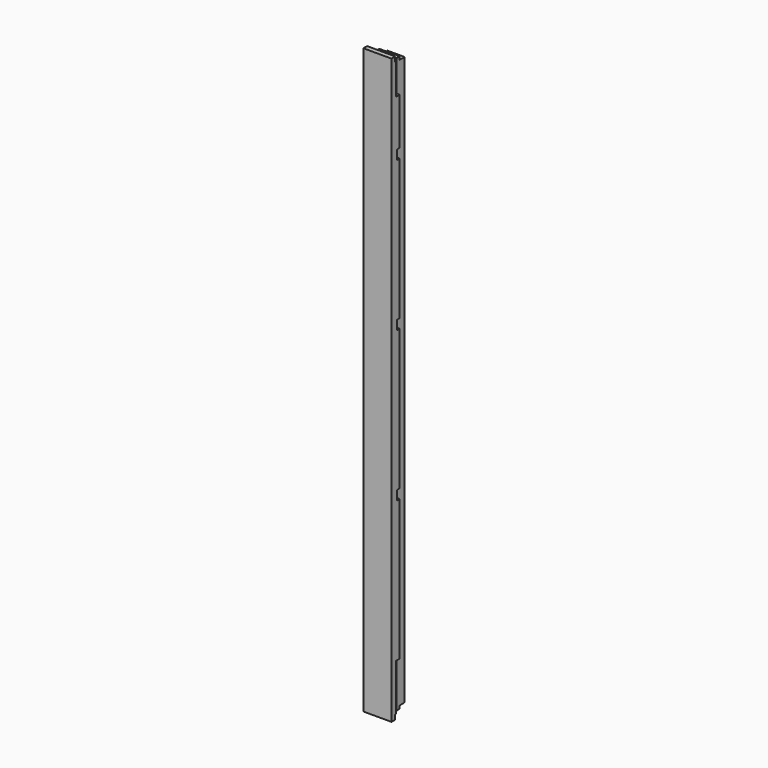
from build123d import *

# Parameters (mm, degrees)
SKETCH003_W     = 90
SKETCH003_H     = 65
PAD001_DEPTH    = 1870
POCKET016_DEPTH = 15
POCKET018_DEPTH = 15
SKETCH006_W     = 10
SKETCH006_H     = 30
POCKET004_DEPTH = 90.001
SKETCH007_W     = 20
SKETCH007_H     = 25
POCKET005_DEPTH = 3836.586112
SKETCH008_W     = 50
SKETCH008_H     = 15
POCKET006_DEPTH = 3836.586112
SKETCH009_W     = 25
SKETCH009_H     = 20
POCKET007_DEPTH = 1870.001
SKETCH010_W     = 15
SKETCH010_H     = 50
POCKET008_DEPTH = 1870.001
SKETCH020_W     = 10
SKETCH020_H     = 32
POCKET017_DEPTH = 1870.001


with BuildPart() as part:
    # Sketch003 (on DatumPlane) → Pad001 (new body)
    with BuildSketch(Plane.XY.offset(935)):
        Rectangle(SKETCH003_W, SKETCH003_H)
    extrude(amount=-PAD001_DEPTH)

    # Sketch019 (on DatumPlane) → Pocket016 (cut)
    with BuildSketch(Plane(origin=(0, 0.5, 0), x_dir=(-1, 0, 0), z_dir=(0, 1, 0))):
        Polygon((-45, 935), (-20, 935), (-20, 890), (45, 890), (45, 820), (-45, 820), align=None)
    extrude(amount=-POCKET016_DEPTH, mode=Mode.SUBTRACT)

    # Sketch021 (on DatumPlane) → Pocket018 (cut)
    with BuildSketch(Plane(origin=(0, 0.5, 0), x_dir=(-1, 0, 0), z_dir=(0, 1, 0))):
        Polygon((45, -770), (-45, -770), (-45, -935), (-20, -935), (-20, -870), (45, -870), align=None)
    extrude(amount=-POCKET018_DEPTH, mode=Mode.SUBTRACT)

    # Sketch006 (on DatumPlane) → Pocket004 (cut, through all)
    with BuildSketch(Plane.YZ.offset(45)):
        with Locations((-4.5, -305)):
            Rectangle(SKETCH006_W, SKETCH006_H)
        with Locations((-4.5, 175)):
            Rectangle(SKETCH006_W, SKETCH006_H)
        with Locations((-4.5, 655)):
            Rectangle(SKETCH006_W, SKETCH006_H)
    extrude(amount=-POCKET004_DEPTH, mode=Mode.SUBTRACT)

    # Sketch007 (on DatumPlane) → Pocket005 (cut, through all)
    with BuildSketch(Plane.YZ.offset(45)):
        with Locations((22.5, 922.5)):
            Rectangle(SKETCH007_W, SKETCH007_H)
    pocket005 = extrude(amount=-POCKET005_DEPTH, mode=Mode.SUBTRACT)

    # Sketch008 (on DatumPlane) → Pocket006 (cut, through all)
    with BuildSketch(Plane.YZ.offset(45)):
        with Locations((7.5, 927.5)):
            Rectangle(SKETCH008_W, SKETCH008_H)
    pocket006 = extrude(amount=-POCKET006_DEPTH, mode=Mode.SUBTRACT)

    # Mirrored002: Pocket005, Pocket006 across XY
    add(pocket005.mirror(Plane.XY), mode=Mode.SUBTRACT)
    add(pocket006.mirror(Plane.XY), mode=Mode.SUBTRACT)

    # Sketch009 (on DatumPlane) → Pocket007 (cut, through all)
    with BuildSketch(Plane.XY.offset(935)):
        with Locations((-32.5, 22.5)):
            Rectangle(SKETCH009_W, SKETCH009_H)
    extrude(amount=-POCKET007_DEPTH, mode=Mode.SUBTRACT)

    # Sketch010 (on Plane of DatumPlane003) → Pocket008 (cut, through all)
    with BuildSketch(Plane.XY.offset(935)):
        with Locations((-37.5, 7.5)):
            Rectangle(SKETCH010_W, SKETCH010_H)
    extrude(amount=-POCKET008_DEPTH, mode=Mode.SUBTRACT)

    # Sketch020 (on DatumPlane) → Pocket017 (cut, through all)
    with BuildSketch(Plane.XY.offset(935)):
        with Locations((40, 16.5)):
            Rectangle(SKETCH020_W, SKETCH020_H)
    extrude(amount=-POCKET017_DEPTH, mode=Mode.SUBTRACT)


solid = part.part
